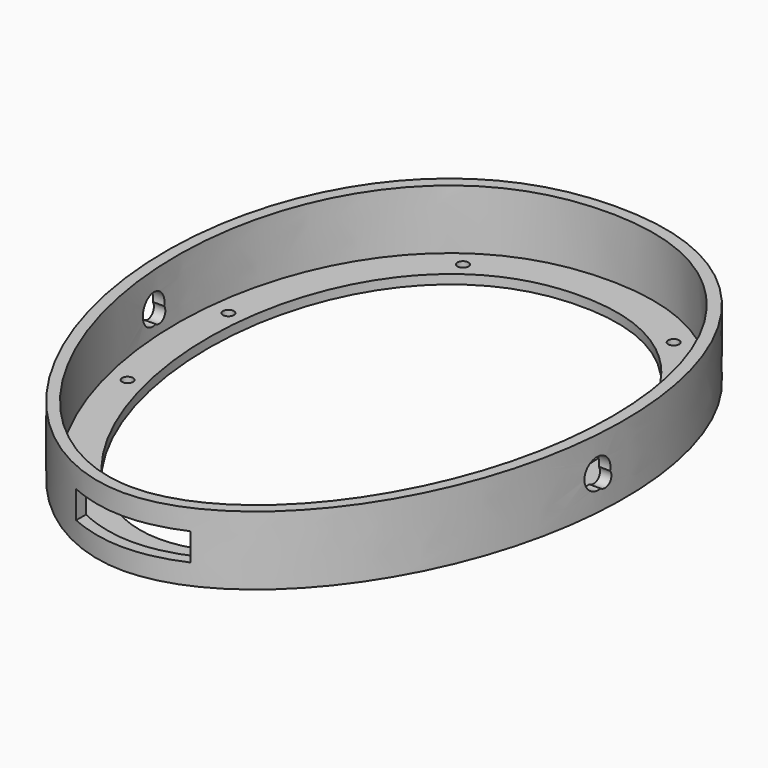
from build123d import *

# Parameters (mm, degrees)
PAD_DEPTH       = 15
POCKET_DEPTH    = 13
SKETCH002_R     = 1.2
HOLE_DEPTH      = 25
SKETCH003_R     = 3.25
SKETCH003_R_2   = 1.75
POCKET001_DEPTH = 103.001035
SKETCH020_W     = 25
SKETCH020_H     = 6
POCKET009_DEPTH = 10


with BuildPart() as part:
    # Sketch → Pad (new body)
    with BuildSketch(Plane.XY):
        with BuildLine():
            add(Edge.make_bspline(
                [(-2.2e-05, -67.5), (33.333311, -67.500011), (74.999989, -20.25), (75.000011, 47.25), (33.333355, 67.499989), (2.2e-05, 67.5), (-33.333311, 67.500011), (-74.999989, 47.25), (-75.000011, -20.25), (-33.333355, -67.499989), (-2.2e-05, -67.5)],
                knots=[0, 0, 0, 0, 0, 0, 1, 1, 1, 1, 1, 2, 2, 2, 2, 2, 2], degree=5, weights=[3, 1.8, 1.2, 1.2, 1.8, 3, 1.8, 1.2, 1.2, 1.8, 3]))
        make_face()
        with BuildLine():
            add(Edge.make_bspline(
                [(-1.9e-05, -57.5), (26.666648, -57.500009), (59.999991, -17.25), (60.000009, 40.25), (26.666685, 57.499991), (1.9e-05, 57.5), (-26.666648, 57.500009), (-59.999991, 40.25), (-60.000009, -17.25), (-26.666685, -57.499991), (-1.9e-05, -57.5)],
                knots=[0, 0, 0, 0, 0, 0, 1, 1, 1, 1, 1, 2, 2, 2, 2, 2, 2], degree=5, weights=[3, 1.8, 1.2, 1.2, 1.8, 3, 1.8, 1.2, 1.2, 1.8, 3]))
        make_face(mode=Mode.SUBTRACT)
    extrude(amount=PAD_DEPTH)

    # Sketch001 (on Face4 of Pad) → Pocket (cut)
    with BuildSketch(Plane.XY.offset(15)):
        with BuildLine():
            add(Edge.make_bspline(
                [(-2.1e-05, -65), (31.666645, -65.00001), (71.249989, -19.5), (71.250011, 45.5), (31.666688, 64.99999), (2.1e-05, 65), (-31.666645, 65.00001), (-71.249989, 45.5), (-71.250011, -19.5), (-31.666688, -64.99999), (-2.1e-05, -65)],
                knots=[0, 0, 0, 0, 0, 0, 1, 1, 1, 1, 1, 2, 2, 2, 2, 2, 2], degree=5, weights=[3, 1.8, 1.2, 1.2, 1.8, 3, 1.8, 1.2, 1.2, 1.8, 3]))
        make_face()
    extrude(amount=-POCKET_DEPTH, mode=Mode.SUBTRACT)

    # Sketch002 (on Face6 of Pocket) → Hole (cut)
    with BuildSketch(Plane.XY.offset(2)):
        with Locations((-41, -15)):
            Circle(SKETCH002_R)
        with Locations((41, -15)):
            Circle(SKETCH002_R)
        with Locations((-23, -50)):
            Circle(SKETCH002_R)
        with Locations((23, -50)):
            Circle(SKETCH002_R)
        with Locations((-43, 15)):
            Circle(SKETCH002_R)
        with Locations((43, 15)):
            Circle(SKETCH002_R)
        with Locations((-23, 54)):
            Circle(SKETCH002_R)
        with Locations((23, 54)):
            Circle(SKETCH002_R)
    extrude(amount=-HOLE_DEPTH, mode=Mode.SUBTRACT)

    # Sketch003 (on DatumPlane) → Pocket001 (cut, through all)
    with BuildSketch(Plane(origin=(52.999999, 1.839221, 7.5), x_dir=(0, 0, -1), z_dir=(1, -1e-06, 0))):
        with Locations((0, -2)):
            Circle(SKETCH003_R)
        with Locations((1.75, -0.25)):
            Circle(SKETCH003_R_2)
    extrude(amount=-POCKET001_DEPTH, mode=Mode.SUBTRACT)

    # Sketch020 → Pocket009 (cut)
    with BuildSketch(Plane.XZ.offset(68)):
        with Locations((0, 7.5)):
            Rectangle(SKETCH020_W, SKETCH020_H)
    extrude(amount=-POCKET009_DEPTH, mode=Mode.SUBTRACT)


solid = part.part
